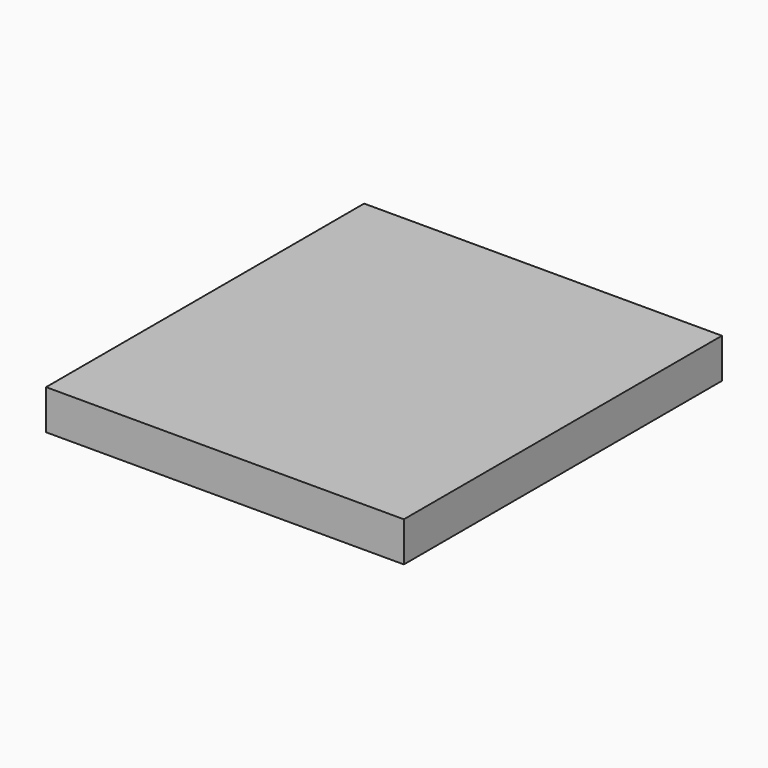
from build123d import *

# Parameters (mm, degrees)
SKETCH_W  = 18
SKETCH_H  = 20
PAD_DEPTH = 2


with BuildPart() as part:
    # Sketch → Pad (new body)
    with BuildSketch(Plane.XY):
        with Locations((9, 10)):
            Rectangle(SKETCH_W, SKETCH_H)
    extrude(amount=PAD_DEPTH)


solid = part.part
